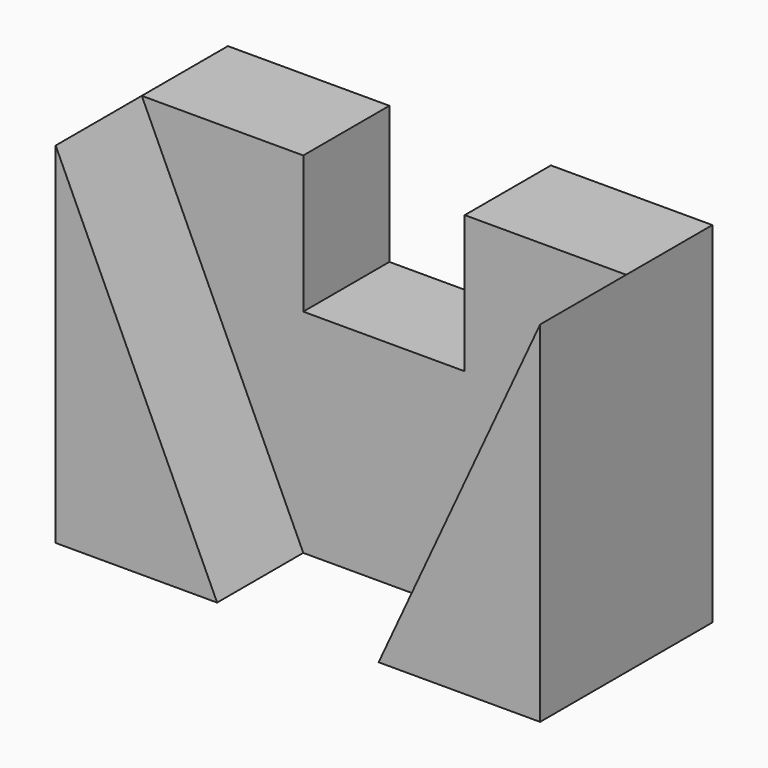
from build123d import *

# Parameters (mm, degrees)
F1_DEPTH = 20
F3_DEPTH = 20
F5_DEPTH = 20


with BuildPart() as f1:
    # F0 (on Front) → F1 (new body)
    with BuildSketch(Plane.XZ):
        Polygon((-24.709278, 32.928156), (-54.709278, 32.928156), (-54.709278, -32.071844), (35.290722, -32.071844), (35.290722, 32.928156), (5.290722, 32.928156), (5.290722, 7.385719), (-24.709278, 7.385719), align=None)
    extrude(amount=F1_DEPTH)

    # F2 (on face) → F3 (join)
    with BuildSketch(Plane.XZ.offset(20)):
        Polygon((-54.709278, 32.928156), (-54.709278, -32.071844), (-24.709278, -32.071844), align=None)
    extrude(amount=F3_DEPTH)

    # F4 (on face) → F5 (join)
    with BuildSketch(Plane.XZ.offset(20)):
        Polygon((5.290722, -32.071844), (35.290722, -32.071844), (35.290722, 32.928156), align=None)
    extrude(amount=F5_DEPTH)


solid = f1.part
